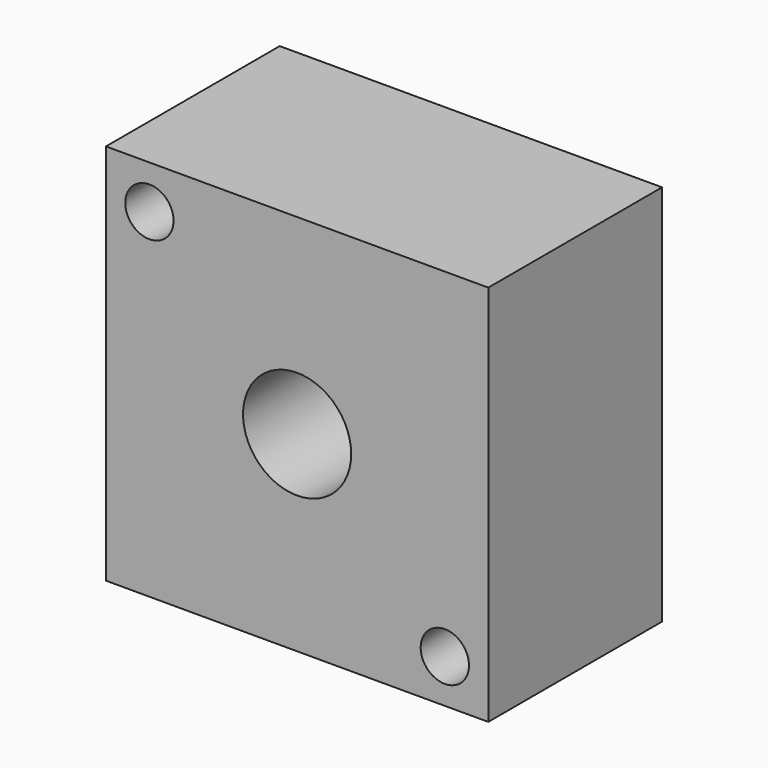
from build123d import *

# Parameters (mm, degrees)
F0_W     = 44
F0_H     = 44
F0_R     = 6.222357
F0_R_2   = 2.778255
F1_DEPTH = 25


with BuildPart() as f1:
    # F0 (on Front) → F1 (new body)
    with BuildSketch(Plane.XZ):
        with Locations((58.216352, 46.031879)):
            Rectangle(F0_W, F0_H)
        with Locations((58.216352, 46.031879)):
            Circle(F0_R, mode=Mode.SUBTRACT)
        with Locations((75.216352, 29.031879)):
            Circle(F0_R_2, mode=Mode.SUBTRACT)
        with Locations((41.216352, 63.031879)):
            Circle(F0_R_2, mode=Mode.SUBTRACT)
    extrude(amount=F1_DEPTH)


solid = f1.part
